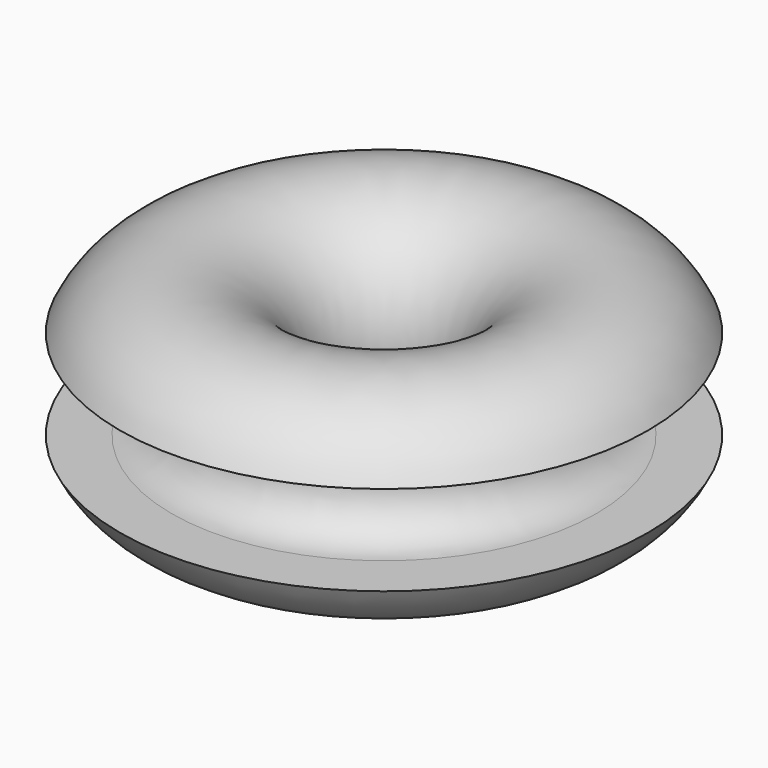
from build123d import *


with BuildPart() as f1:
    # F0 (on Front) → F1 (revolve)
    with BuildSketch(Plane.XZ):
        with BuildLine():
            Line((1.799847, 1.875), (3.952847, 1.875))
            ThreePointArc((3.952847, 1.875), (-4.375, 0), (3.952847, -1.875))
            Line((3.952847, -1.875), (1.799847, -1.875))
            ThreePointArc((1.799847, -1.875), (0.527055, -1.347792), (-0.000153, -0.075))
            Line((-0.000153, -0.075), (-0.000153, 0.075))
            ThreePointArc((-0.000153, 0.075), (0.527055, 1.347792), (1.799847, 1.875))
        make_face()
    revolve(axis=Axis((-7.047153, 0, 0), (0, 0, -1)))


solid = f1.part
